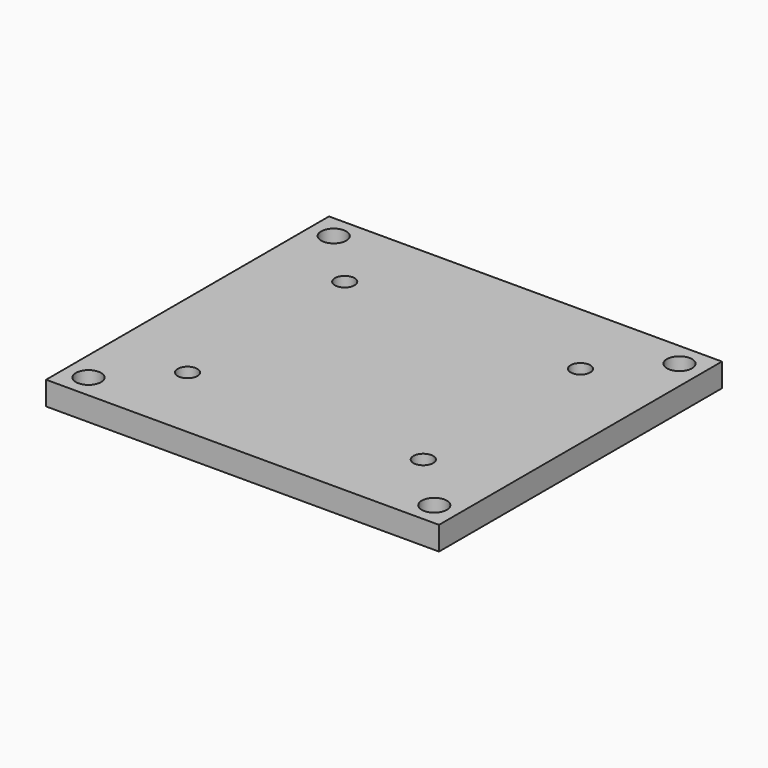
from build123d import *

# Parameters (mm, degrees)
F0_W     = 50
F0_H     = 45
F0_R     = 1.6
F1_DEPTH = 3
F3_D     = 2.5


with BuildPart() as f1:
    # F0 (on Top) → F1 (new body)
    with BuildSketch(Plane.XY):
        Rectangle(F0_W, F0_H)
        with Locations((-22, -19.5)):
            Circle(F0_R, mode=Mode.SUBTRACT)
        with Locations((22, -19.5)):
            Circle(F0_R, mode=Mode.SUBTRACT)
        with Locations((-22, 19.5)):
            Circle(F0_R, mode=Mode.SUBTRACT)
        with Locations((22, 19.5)):
            Circle(F0_R, mode=Mode.SUBTRACT)
    extrude(amount=F1_DEPTH)

    # F3 (through all)
    with Locations(Plane.XY.offset(3)):
        with Locations((-15, 12.5), (15, 12.5), (15, -12.5), (-15, -12.5)):
            Hole(F3_D / 2)


solid = f1.part
